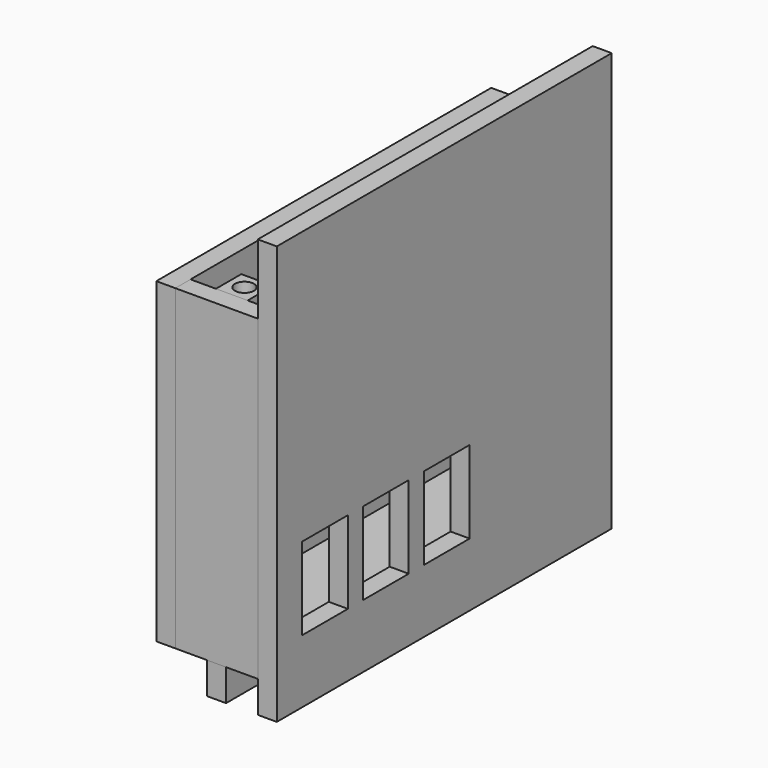
from build123d import *

# Parameters (mm, degrees)
F0_W      = 13
F0_H      = 60
F1_DEPTH  = 3
F2_W      = 13
F2_H      = 47
F2_R      = 1
F2_H_2    = 3
F3_DEPTH  = 3
F4_W      = 13
F4_H      = 47
F4_H_2    = 3
F5_DEPTH  = 3
F6_W      = 66
F6_H      = 66
F6_W_2    = 9
F6_H_2    = 13
F6_W_3    = 60
F6_H_3    = 3
F7_DEPTH  = 3
F8_R      = 1.5
F8_W      = 60
F8_H      = 3
F9_DEPTH  = 3
F10_W     = 3
F10_H     = 60
F10_H_2   = 3
F11_DEPTH = 5
F12_W     = 5
F12_H     = 3
F13_DEPTH = 5
F12_W_2   = 3
F12_H_2   = 5
F14_R     = 1.5
F15_DEPTH = 3
F16_R     = 1.5
F17_DEPTH = 3
F18_W     = 3
F18_H     = 5
F19_DEPTH = 5
F18_W_2   = 5
F18_H_2   = 3
F20_R     = 1.5
F21_DEPTH = 3
F22_R     = 1.5
F23_DEPTH = 3


with BuildPart() as f1:
    # F0 (on Top) → F1 (new body)
    with BuildSketch(Plane.XY):
        Rectangle(F0_W, F0_H)
    extrude(amount=F1_DEPTH)


with BuildPart() as f3:
    # F2 (on face) → F3 (new body)
    with BuildSketch(Plane(origin=(0, 30, 0), x_dir=(-1, 0, 0), z_dir=(0, 1, 0))):
        with Locations((0, 26.5)):
            Rectangle(F2_W, F2_H)
        with Locations((-2.5, 10)):
            Circle(F2_R, mode=Mode.SUBTRACT)
        with Locations((-2.5, 15)):
            Circle(F2_R, mode=Mode.SUBTRACT)
        with Locations((0, 10)):
            Circle(F2_R, mode=Mode.SUBTRACT)
        with Locations((2.5, 10)):
            Circle(F2_R, mode=Mode.SUBTRACT)
        with Locations((2.5, 15)):
            Circle(F2_R, mode=Mode.SUBTRACT)
        with Locations((0, 1.5)):
            Rectangle(F2_W, F2_H_2)
    extrude(amount=F3_DEPTH)


with BuildPart() as f5:
    # F4 (on face) → F5 (new body)
    with BuildSketch(Plane.XZ.offset(30)):
        with Locations((0, 26.5)):
            Rectangle(F4_W, F4_H)
        with Locations((0, 1.5)):
            Rectangle(F4_W, F4_H_2)
    extrude(amount=F5_DEPTH)


with BuildPart() as f7:
    # F6 (on face) → F7 (new body)
    with BuildSketch(Plane.YZ.offset(6.5)):
        with Locations((0, 28)):
            Rectangle(F6_W, F6_H)
        with Locations((-23.5, 11.5)):
            Rectangle(F6_W_2, F6_H_2, mode=Mode.SUBTRACT)
        with Locations((-11.5, 11.5)):
            Rectangle(F6_W_2, F6_H_2, mode=Mode.SUBTRACT)
        with Locations((0, 1.5)):
            Rectangle(F6_W_3, F6_H_3, mode=Mode.SUBTRACT)
        with Locations((0.5, 11.5)):
            Rectangle(F6_W_2, F6_H_2, mode=Mode.SUBTRACT)
        with Locations((0, 1.5)):
            Rectangle(F6_W_3, F6_H_3)
    extrude(amount=F7_DEPTH)


with BuildPart() as f9:
    # F8 (on face) → F9 (new body)
    with BuildSketch(Plane(origin=(-6.5, 0, 0), x_dir=(0, -1, 0), z_dir=(-1, 0, 0))):
        Polygon((-33, 0), (-30, 0), (-30, 3), (30, 3), (30, 0), (33, 0), (33, 50), (-33, 50), align=None)
        with Locations((-27.5, 25)):
            Circle(F8_R, mode=Mode.SUBTRACT)
        with Locations((27.5, 25)):
            Circle(F8_R, mode=Mode.SUBTRACT)
        with Locations((0, 1.5)):
            Rectangle(F8_W, F8_H)
    extrude(amount=F9_DEPTH)


with BuildPart() as f11:
    # F10 (on face) → F11 (new body)
    with BuildSketch(Plane(origin=(0, 0, 0), x_dir=(1, 0, 0), z_dir=(0, 0, -1))):
        Rectangle(F10_W, F10_H)
        with Locations((0, -31.5)):
            Rectangle(F10_W, F10_H_2)
        with Locations((0, 31.5)):
            Rectangle(F10_W, F10_H_2)
    extrude(amount=F11_DEPTH)


with BuildPart() as f13:
    # F12 (on face) → F13 (new body)
    with BuildSketch(Plane.XZ.offset(-30)):
        with Locations((0, 48.5)):
            Rectangle(F12_W, F12_H)
    extrude(amount=F13_DEPTH)

    # F16 (on face) → F17 (cut)
    with BuildSketch(Plane.XY.offset(50)):
        with Locations((0, 27.5)):
            Circle(F16_R)
    extrude(amount=-F17_DEPTH, mode=Mode.SUBTRACT)


with BuildPart() as f13b:
    # F12 (on face) → F13, piece 2 (new body)
    with BuildSketch(Plane.XZ.offset(-30)):
        with Locations((-5, 25)):
            Rectangle(F12_W_2, F12_H_2)
    extrude(amount=F13_DEPTH)

    # F14 (on face) → F15 (cut)
    with BuildSketch(Plane.YZ.offset(-3.5)):
        with Locations((27.5, 25)):
            Circle(F14_R)
    extrude(amount=-F15_DEPTH, mode=Mode.SUBTRACT)


with BuildPart() as f19:
    # F18 (on face) → F19 (new body)
    with BuildSketch(Plane(origin=(0, -30, 0), x_dir=(-1, 0, 0), z_dir=(0, 1, 0))):
        with Locations((5, 25)):
            Rectangle(F18_W, F18_H)
    extrude(amount=F19_DEPTH)

    # F22 (on face) → F23 (cut)
    with BuildSketch(Plane.YZ.offset(-3.5)):
        with Locations((-27.5, 25)):
            Circle(F22_R)
    extrude(amount=-F23_DEPTH, mode=Mode.SUBTRACT)


with BuildPart() as f19b:
    # F18 (on face) → F19, piece 2 (new body)
    with BuildSketch(Plane(origin=(0, -30, 0), x_dir=(-1, 0, 0), z_dir=(0, 1, 0))):
        with Locations((0, 48.5)):
            Rectangle(F18_W_2, F18_H_2)
    extrude(amount=F19_DEPTH)

    # F20 (on face) → F21 (cut)
    with BuildSketch(Plane.XY.offset(50)):
        with Locations((0, -27.5)):
            Circle(F20_R)
    extrude(amount=-F21_DEPTH, mode=Mode.SUBTRACT)


solid = Compound([f1.part, f3.part, f5.part, f7.part, f9.part, f11.part, f13.part, f13b.part, f19.part, f19b.part])
